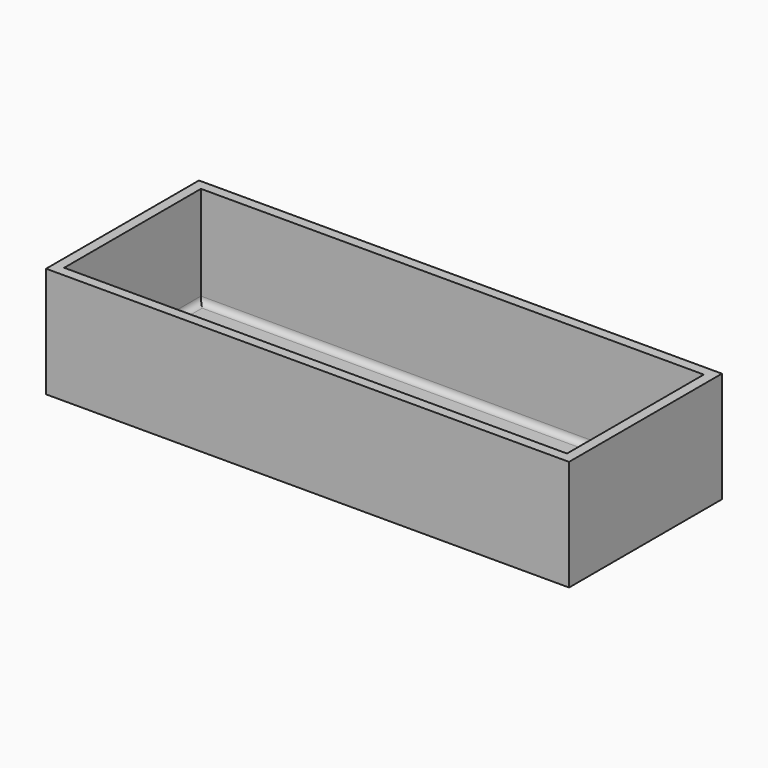
from build123d import *

# Parameters (mm, degrees)
F0_W     = 50
F0_H     = 17
F1_DEPTH = 1
F0_W_2   = 52
F0_H_2   = 19
F2_DEPTH = 11
F3_R     = 0.61


with BuildPart() as f1:
    # F0 (on Top) → F1 (new body)
    with BuildSketch(Plane.XY):
        with Locations((6.898358, -7.023614)):
            Rectangle(F0_W, F0_H)
    extrude(amount=F1_DEPTH)

    # F0 (on Top) → F2 (join)
    with BuildSketch(Plane.XY):
        with Locations((6.898358, -7.023614)):
            Rectangle(F0_W_2, F0_H_2)
        with Locations((6.898358, -7.023614)):
            Rectangle(F0_W, F0_H, mode=Mode.SUBTRACT)
    extrude(amount=F2_DEPTH)

    # F3
    f3_edges = [f1.edges().sort_by_distance(p)[0] for p in [
        (6.898358, 1.476386, 1),
        (-18.101642, -7.023614, 1),
        (6.898358, -15.523614, 1),
        (31.898358, -7.023614, 1),
    ]]
    fillet(f3_edges, radius=F3_R)


solid = f1.part
